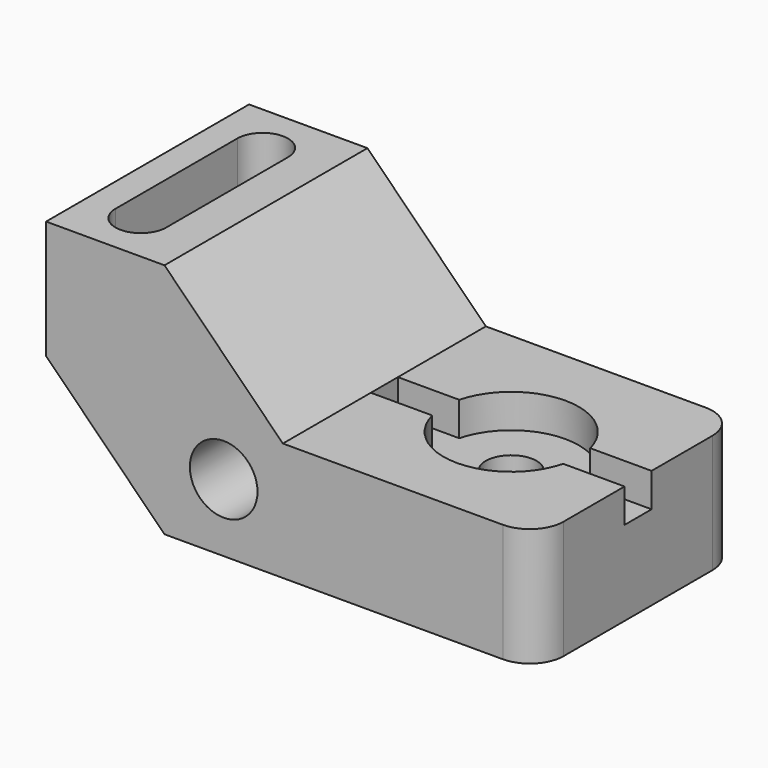
from build123d import *

# Parameters (mm, degrees)
F1_DEPTH       = 76.2
F4_DEPTH       = 27.94
F5_R           = 10.16
F6_DEPTH       = 76.201
F8_D           = 15.24
F8_CBORE_D     = 40.64
F8_CBORE_DEPTH = 10.16
F11_DEPTH      = 10.16
F12_R          = 10.16


with BuildPart() as f1:
    # F0 (on Front) → F1 (new body)
    with BuildSketch(Plane.XZ):
        Polygon((35.56, 71.12), (0, 71.12), (0, 35.56), (35.56, 0), (147.32, 0), (147.32, 35.56), (71.12, 35.56), align=None)
    extrude(amount=F1_DEPTH)

    # F3 (on offset) → F4 (cut)
    with BuildSketch(Plane.XY.offset(71.12)):
        with BuildLine():
            ThreePointArc((23.8912540478, -15.24), (16.2712540478, -7.62), (8.6512540478, -15.24))
            Line((8.6512540478, -15.24), (8.6512540478, -60.96))
            ThreePointArc((8.6512540478, -60.96), (16.2712540478, -68.58), (23.8912540478, -60.96))
            Line((23.8912540478, -60.96), (23.8912540478, -15.24))
        make_face()
    extrude(amount=-F4_DEPTH, mode=Mode.SUBTRACT)

    # F5 (on Front) → F6 (cut, through all)
    with BuildSketch(Plane.XZ):
        with Locations((53.34, 20.32)):
            Circle(F5_R)
    extrude(amount=F6_DEPTH, mode=Mode.SUBTRACT)

    # F8 (through all)
    with Locations(Plane.XY.offset(35.56)):
        with Locations((109.22, -38.1)):
            CounterBoreHole(F8_D / 2, F8_CBORE_D / 2, F8_CBORE_DEPTH)

    # F10 (on offset) → F11 (cut)
    with BuildSketch(Plane.XY.offset(35.56)):
        with BuildLine():
            Line((147.32, -33.02), (128.8947553987, -33.02))
            ThreePointArc((128.8947553987, -33.02), (129.54, -38.1), (128.8947553987, -43.18))
            Line((128.8947553987, -43.18), (147.32, -43.18))
            Line((147.32, -43.18), (147.32, -38.1))
            Line((147.32, -38.1), (147.32, -33.02))
        make_face()
        with BuildLine():
            Line((89.5452446013, -33.02), (71.12, -33.02))
            Line((71.12, -33.02), (71.12, -43.18))
            Line((71.12, -43.18), (89.5452446013, -43.18))
            ThreePointArc((89.5452446013, -43.18), (88.9, -38.1), (89.5452446013, -33.02))
        make_face()
    extrude(amount=-F11_DEPTH, mode=Mode.SUBTRACT)

    # F12
    f12_edges = [f1.edges().sort_by_distance(p)[0] for p in [
        (147.32, 0, 17.78),
        (147.32, -76.2, 17.78),
    ]]
    fillet(f12_edges, radius=F12_R)


solid = f1.part
